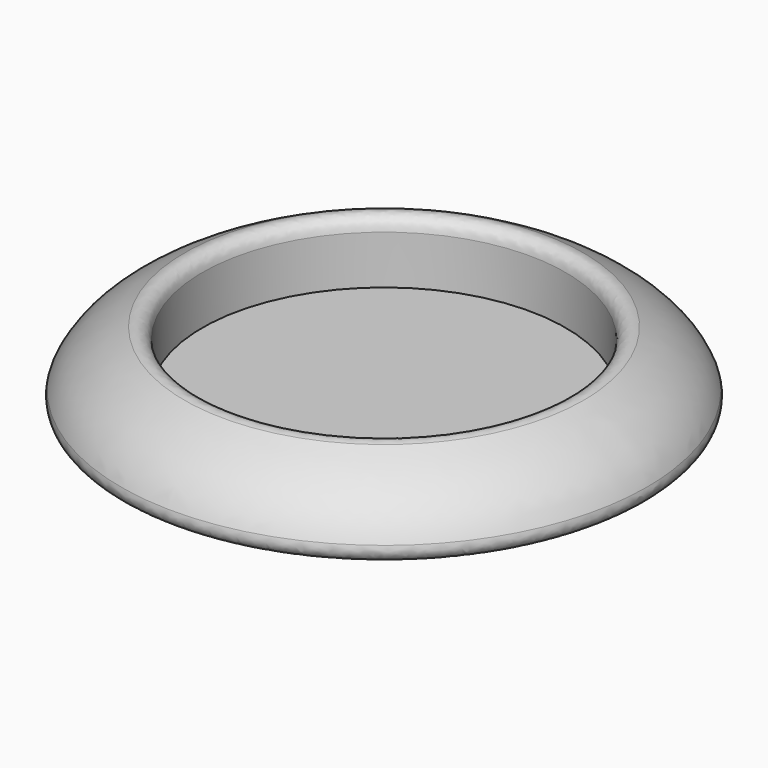
from build123d import *

# Parameters (mm, degrees)
F2_R = 2
F3_R = 2


with BuildPart() as f1:
    # F0 (on Front) → F1 (revolve)
    with BuildSketch(Plane.XZ):
        with BuildLine():
            Line((0, 0), (42.5, 0))
            add(Edge.make_bspline(
                [(42.5, 0), (42.5, 7.604171656), (29, 12.7929005506)],
                knots=[3.1415926536, 3.1415926536, 3.1415926536, 3.9614124639, 3.9614124639, 3.9614124639], degree=2, weights=[1, 0.9171567317, 1]))
            Line((29, 12.7929005506), (29, 2))
            Line((29, 2), (0, 2))
            Line((0, 2), (0, 0))
        make_face()
    revolve(axis=Axis((0, 0, 1), (0, 0, -1)))

    # F2
    f2_edges = [f1.edges().sort_by_distance(p)[0] for p in [
        (-42.5, 0, 0),
    ]]
    fillet(f2_edges, radius=F2_R)

    # F3
    f3_edges = [f1.edges().sort_by_distance(p)[0] for p in [
        (-29, 0, 12.792901),
    ]]
    fillet(f3_edges, radius=F3_R)


solid = f1.part
